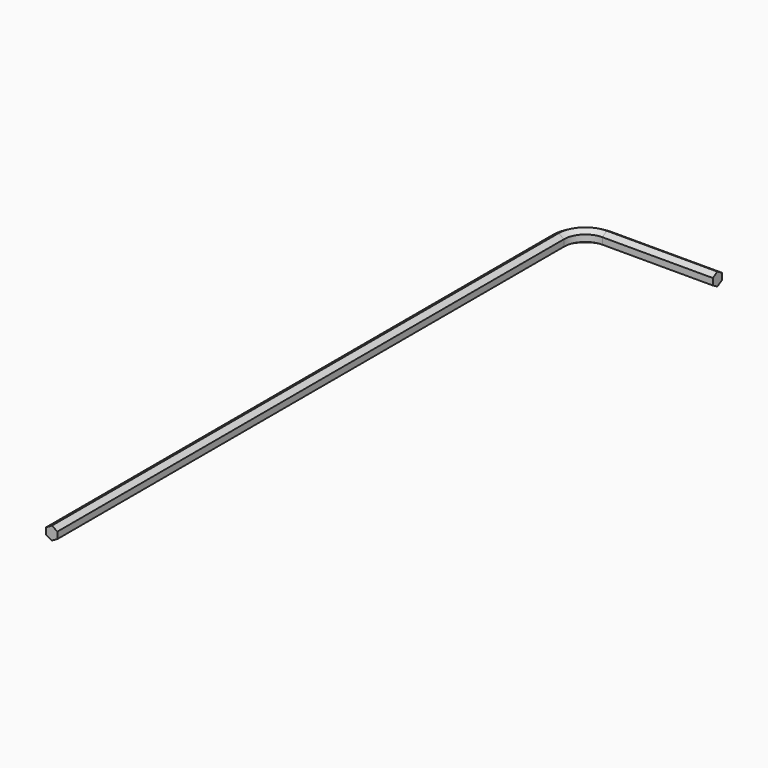
from build123d import *


with BuildPart() as part:
    # AdditivePipe: sweep along a path in Sketch001
    with BuildLine(Plane.XY) as additivepipe_path:
        Line((0, 0), (-12.3, 0))
        ThreePointArc((-12.3, 0), (-14.42132, -0.87868), (-15.3, -3))
        Line((-15.3, -3), (-15.3, -73.5))
    # Sketch → AdditivePipe (sweep)
    with BuildSketch(Plane.YZ):
        Polygon((0, 0.733235), (-0.635, 0.366617), (-0.635, -0.366617), (0, -0.733235), (0.635, -0.366617), (0.635, 0.366617), align=None)
    sweep(path=additivepipe_path.line)


solid = part.part
